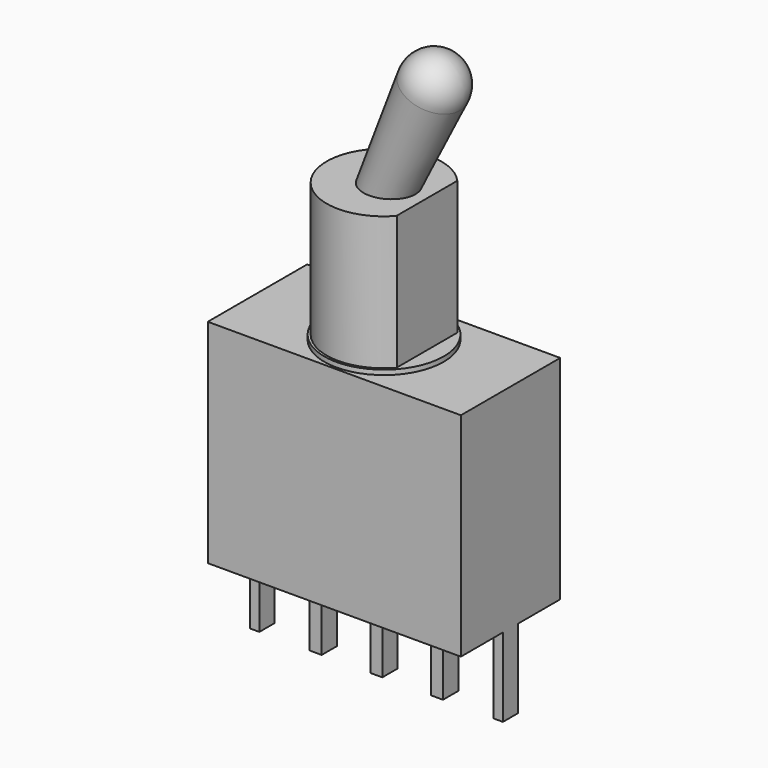
from build123d import *

# Parameters (mm, degrees)
SKETCH_W      = 10.6
SKETCH_H      = 5.2
PAD_DEPTH     = 8.9
SKETCH001_R   = 2.5
PAD001_DEPTH  = 0.2
SKETCH002_R   = 2.4
PAD002_DEPTH  = 5.6
SKETCH003_W   = 0.5
SKETCH003_H   = 0.8
SKETCH003_W_2 = 0.4
PAD003_DEPTH  = 3.3
SKETCH004_W   = 5.3
SKETCH004_H   = 3.175016
POCKET_DEPTH  = 5.6


with BuildPart() as part:
    # Sketch → Pad (new body)
    with BuildSketch(Plane.XY):
        Rectangle(SKETCH_W, SKETCH_H)
    extrude(amount=PAD_DEPTH)

    # Sketch001 (on Face6 of Pad) → Pad001 (join)
    with BuildSketch(Plane.XY.offset(8.9)):
        Circle(SKETCH001_R)
    extrude(amount=PAD001_DEPTH)

    # Sketch002 (on Face8 of Pad001) → Pad002 (join)
    with BuildSketch(Plane.XY.offset(9.1)):
        Circle(SKETCH002_R)
    extrude(amount=PAD002_DEPTH)

    # Sketch003 (on Face4 of Pad002) → Pad003 (join)
    with BuildSketch(Plane(origin=(0, 0, 0), x_dir=(1, 0, 0), z_dir=(0, 0, -1))):
        Rectangle(SKETCH003_W, SKETCH003_H)
        with Locations((-2.54, 0)):
            Rectangle(SKETCH003_W, SKETCH003_H)
        with Locations((2.54, 0)):
            Rectangle(SKETCH003_W, SKETCH003_H)
        with Locations((-5.1, 0)):
            Rectangle(SKETCH003_W_2, SKETCH003_H)
        with Locations((5.1, 0)):
            Rectangle(SKETCH003_W_2, SKETCH003_H)
    extrude(amount=PAD003_DEPTH)

    # Cone → Cone (revolve)
    with BuildSketch(Plane(origin=(0, 0, 14.3), x_dir=(0.9135454576, 0, -0.4067366431), z_dir=(0, -1, 0))):
        Polygon((0, 0), (1, 0), (1.25, 5.15), (0, 5.15), align=None)
    revolve(axis=Axis((0, 0, 14.3), (0.4067366431, 0, 0.9135454576)))

    # Sphere → Sphere (revolve)
    with BuildSketch(Plane(origin=(2.0946937118, 0, 19.0047591069), x_dir=(0.9135454576, 0, -0.4067366431), z_dir=(0, -1, 0))):
        with BuildLine():
            ThreePointArc((0, -1.25), (1.25, 0), (0, 1.25))
            Line((0, 1.25), (0, -1.25))
        make_face()
    revolve(axis=Axis((2.0946937118, 0, 19.0047591069), (0.4067366431, 0, 0.9135454576)))

    # Sketch004 (on Face35 of Sphere) → Pocket (cut)
    with BuildSketch(Plane(origin=(2.0946937118, 0, 14.7), x_dir=(1, 0, 0), z_dir=(0, 0, 1))):
        with Locations((2.35, 0.005894)):
            Rectangle(SKETCH004_W, SKETCH004_H)
    extrude(amount=-POCKET_DEPTH, mode=Mode.SUBTRACT)


solid = part.part
